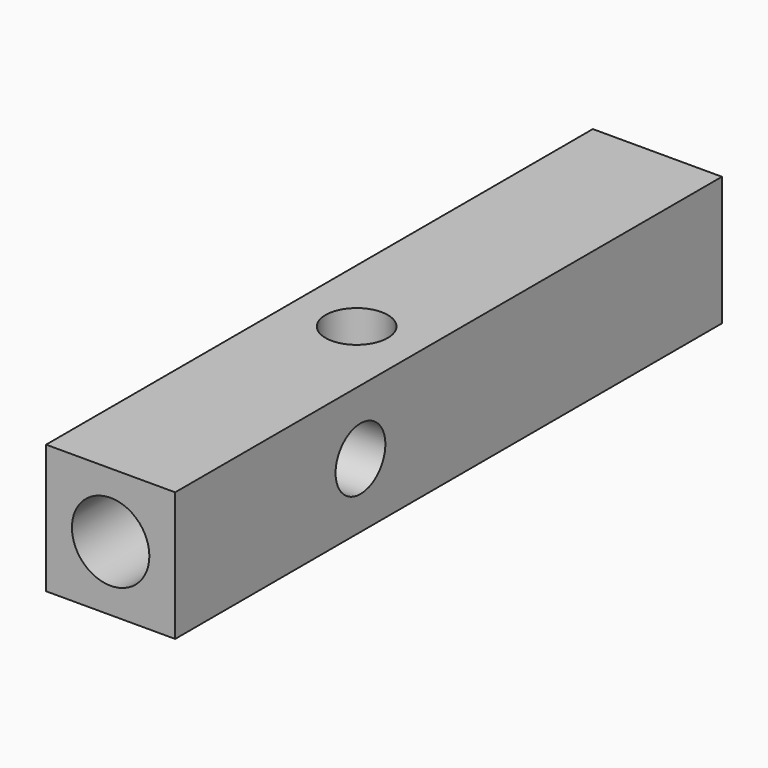
from build123d import *

# Parameters (mm, degrees)
SKETCH_W        = 17
SKETCH_H        = 90
PAD_DEPTH       = 17
SKETCH001_R     = 5.1
POCKET_DEPTH    = 25
SKETCH002_R     = 4.1
POCKET001_DEPTH = 17.001
SKETCH003_R     = 4.1
POCKET002_DEPTH = 17.001


with BuildPart() as part:
    # Sketch → Pad (new body)
    with BuildSketch(Plane.XY):
        with Locations((8.5, 45)):
            Rectangle(SKETCH_W, SKETCH_H)
    extrude(amount=PAD_DEPTH)

    # Sketch001 → Pocket (cut)
    with BuildSketch(Plane.XZ):
        with Locations((8.5, 8.5)):
            Circle(SKETCH001_R)
    extrude(amount=-POCKET_DEPTH, mode=Mode.SUBTRACT)

    # Sketch002 → Pocket001 (cut, through all)
    with BuildSketch(Plane.XY.offset(17)):
        with Locations((8.5, 40.5)):
            Circle(SKETCH002_R)
    extrude(amount=-POCKET001_DEPTH, mode=Mode.SUBTRACT)

    # Sketch003 → Pocket002 (cut, through all)
    with BuildSketch(Plane.YZ.offset(17)):
        with Locations((30.5, 8.5)):
            Circle(SKETCH003_R)
    extrude(amount=-POCKET002_DEPTH, mode=Mode.SUBTRACT)


solid = part.part
